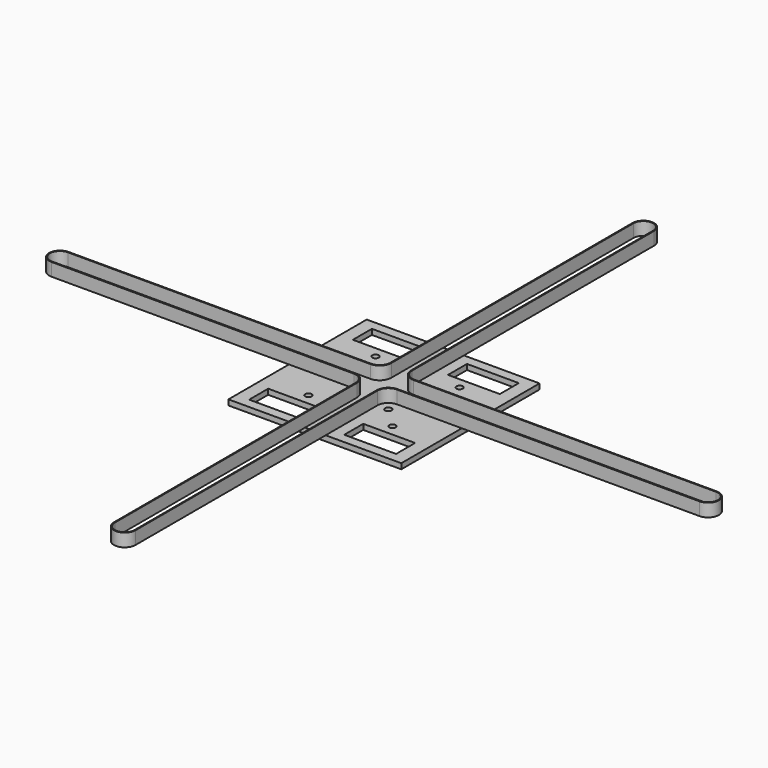
from build123d import *

# Parameters (mm, degrees)
F0_W     = 80
F0_H     = 80
F0_W_2   = 24
F0_H_2   = 11
F0_R     = 1.5
F1_DEPTH = 2.5
F3_DEPTH = 6


with BuildPart() as f1:
    # F0 (on Top) → F1 (new body)
    with BuildSketch(Plane.XY):
        Rectangle(F0_W, F0_H)
        with Locations((-22, -30)):
            Rectangle(F0_W_2, F0_H_2, mode=Mode.SUBTRACT)
        with Locations((-19.440787, -19.440787)):
            Circle(F0_R, mode=Mode.SUBTRACT)
        with Locations((-10, -10)):
            Circle(F0_R, mode=Mode.SUBTRACT)
        with Locations((22, -30)):
            Rectangle(F0_W_2, F0_H_2, mode=Mode.SUBTRACT)
        with Locations((19.440787, -19.440787)):
            Circle(F0_R, mode=Mode.SUBTRACT)
        with Locations((10, -10)):
            Circle(F0_R, mode=Mode.SUBTRACT)
        with Locations((-19.440787, 19.440787)):
            Circle(F0_R, mode=Mode.SUBTRACT)
        with Locations((-10, 10)):
            Circle(F0_R, mode=Mode.SUBTRACT)
        with Locations((-22, 30)):
            Rectangle(F0_W_2, F0_H_2, mode=Mode.SUBTRACT)
        with Locations((10, 10)):
            Circle(F0_R, mode=Mode.SUBTRACT)
        with Locations((19.440787, 19.440787)):
            Circle(F0_R, mode=Mode.SUBTRACT)
        with Locations((22, 30)):
            Rectangle(F0_W_2, F0_H_2, mode=Mode.SUBTRACT)
    extrude(amount=F1_DEPTH)


with BuildPart() as f3:
    # F2 (on face) → F3 (new body)
    with BuildSketch(Plane.XY.offset(2.5)):
        with BuildLine():
            Line((-10, 5), (-150, 5))
            ThreePointArc((-150, 5), (-155, 0), (-150, -5))
            Line((-150, -5), (-10, -5))
            ThreePointArc((-10, -5), (-6.464466, -6.464466), (-5, -10))
            Line((-5, -10), (-5, -150))
            ThreePointArc((-5, -150), (0, -155), (5, -150))
            Line((5, -150), (5, -10))
            ThreePointArc((5, -10), (6.464466, -6.464466), (10, -5))
            Line((10, -5), (150, -5))
            ThreePointArc((150, -5), (155, 0), (150, 5))
            Line((150, 5), (10, 5))
            ThreePointArc((10, 5), (6.464466, 6.464466), (5, 10))
            Line((5, 10), (5, 150))
            ThreePointArc((5, 150), (0, 155), (-5, 150))
            Line((-5, 150), (-5, 10))
            ThreePointArc((-5, 10), (-6.464466, 6.464466), (-10, 5))
        make_face()
        with BuildLine():
            ThreePointArc((-150, -4.58216), (-154.58216, 0), (-150, 4.58216))
            Line((-150, 4.58216), (-10, 4.58216))
            ThreePointArc((-10, 4.58216), (-6.169009, 6.169009), (-4.58216, 10))
            Line((-4.58216, 10), (-4.58216, 150))
            ThreePointArc((-4.58216, 150), (0, 154.58216), (4.58216, 150))
            Line((4.58216, 150), (4.58216, 10))
            ThreePointArc((4.58216, 10), (6.169009, 6.169009), (10, 4.58216))
            Line((10, 4.58216), (150, 4.58216))
            ThreePointArc((150, 4.58216), (154.58216, 0), (150, -4.58216))
            Line((150, -4.58216), (10, -4.58216))
            ThreePointArc((10, -4.58216), (6.169009, -6.169009), (4.58216, -10))
            Line((4.58216, -10), (4.58216, -150))
            ThreePointArc((4.58216, -150), (0, -154.58216), (-4.58216, -150))
            Line((-4.58216, -150), (-4.58216, -10))
            ThreePointArc((-4.58216, -10), (-6.169009, -6.169009), (-10, -4.58216))
            Line((-10, -4.58216), (-150, -4.58216))
        make_face(mode=Mode.SUBTRACT)
    extrude(amount=F3_DEPTH)


solid = Compound([f1.part, f3.part])
